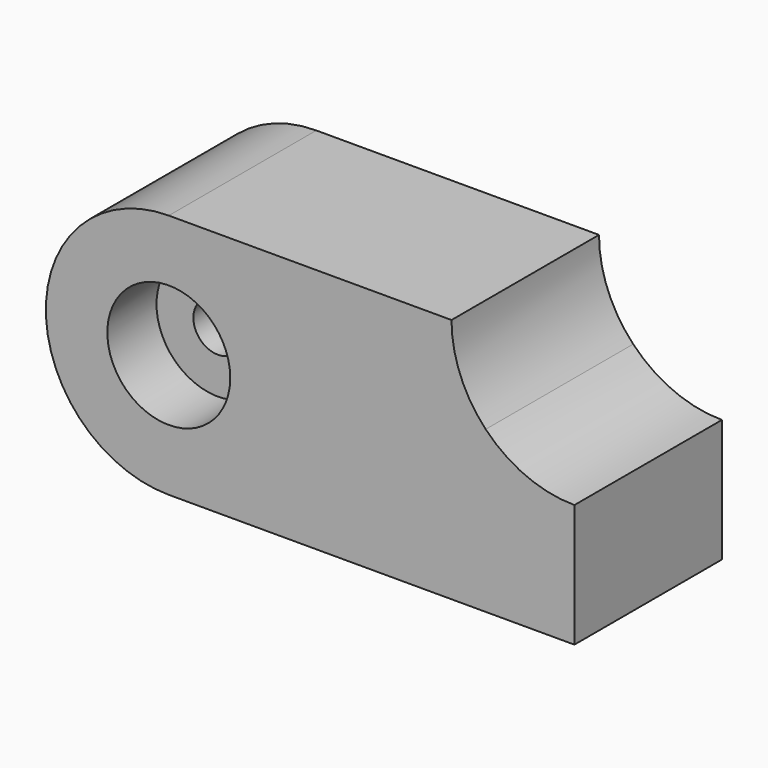
from build123d import *

# Parameters (mm, degrees)
F1_DEPTH = 47.625
F2_R     = 6.35
F3_DEPTH = 47.625
F4_R     = 15.875
F4_R_2   = 6.35
F5_DEPTH = 15.875


with BuildPart() as f1:
    # F0 (on Front) → F1 (new body)
    with BuildSketch(Plane.XZ):
        with BuildLine():
            ThreePointArc((-104.775, 63.5), (-136.525, 31.75), (-104.775, 0))
            Line((-104.775, 0), (-104.775, 63.5))
        make_face()
        with BuildLine():
            Line((-104.775, 0), (0, 0))
            Line((0, 0), (0, 31.75))
            ThreePointArc((0, 31.75), (-12.457359, 34.295947), (-22.916874, 41.525483))
            ThreePointArc((-22.916874, 41.525483), (-29.459067, 51.658299), (-31.75, 63.5))
            Line((-31.75, 63.5), (-104.775, 63.5))
            Line((-104.775, 63.5), (-104.775, 0))
        make_face()
    extrude(amount=F1_DEPTH)

    # F2 (on face) → F3 (cut)
    with BuildSketch(Plane.XZ.offset(47.625)):
        with Locations((-104.775, 31.75)):
            Circle(F2_R)
    extrude(amount=-F3_DEPTH, mode=Mode.SUBTRACT)

    # F4 (on face) → F5 (cut)
    with BuildSketch(Plane.XZ.offset(47.625)):
        with Locations((-104.775, 31.75)):
            Circle(F4_R)
        with Locations((-104.775, 31.75)):
            Circle(F4_R_2, mode=Mode.SUBTRACT)
    extrude(amount=-F5_DEPTH, mode=Mode.SUBTRACT)


solid = f1.part
